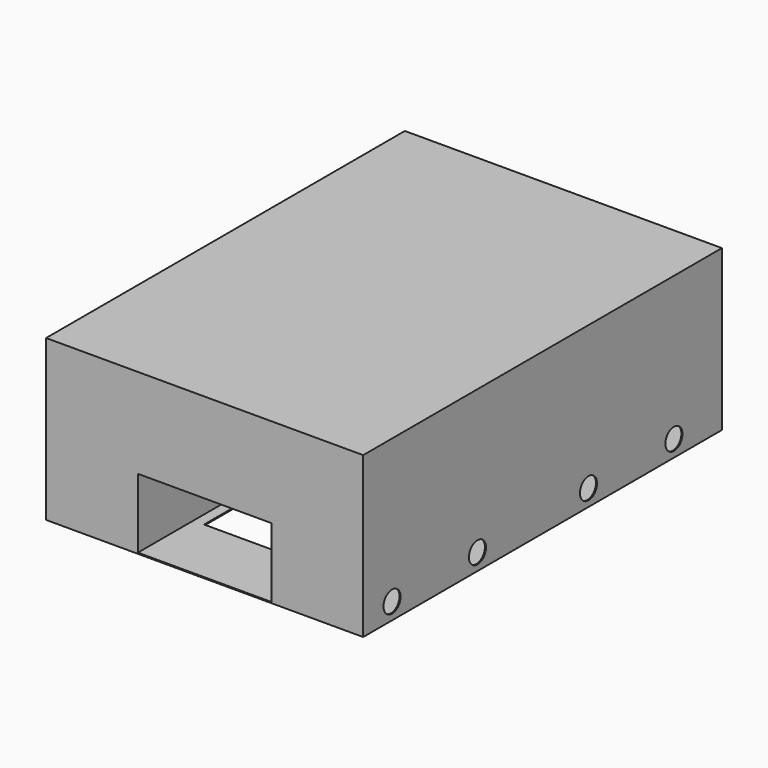
from build123d import *

# Parameters (mm, degrees)
F0_W      = 297
F0_H      = 420
F1_DEPTH  = 150
F3_START  = -1
F2_W      = 295
F2_H      = 418
F3_DEPTH  = 148
F4_W      = 125
F4_H      = 65
F5_DEPTH  = 25
F6_W      = 105
F6_H      = 210
F7_DEPTH  = 25
F9_DEPTH  = 67.5
F11_DEPTH = 295
F12_W     = 83
F12_H     = 1
F13_DEPTH = 148.5
F15_W     = 83
F15_H     = 15.0031849133
F16_DEPTH = 295
F14_W     = 83
F14_H     = 20
F17_DEPTH = 62.5
F18_R     = 10
F19_DEPTH = 7.5


with BuildPart() as f1:
    # F0 (on Top) → F1 (new body)
    with BuildSketch(Plane.XY):
        Rectangle(F0_W, F0_H)
    extrude(amount=F1_DEPTH)

    # F2 (on face) → F3 (cut)
    with BuildSketch(Plane.XY.offset(150).offset(F3_START)):
        Rectangle(F2_W, F2_H)
    extrude(amount=-F3_DEPTH, mode=Mode.SUBTRACT)

    # F4 (on face) → F5 (cut)
    with BuildSketch(Plane.XZ.offset(210)):
        with Locations((0, 33.5)):
            Rectangle(F4_W, F4_H)
    extrude(amount=-F5_DEPTH, mode=Mode.SUBTRACT)

    # F6 (on Top) → F7 (cut)
    with BuildSketch(Plane.XY):
        with Locations((0, -40)):
            Rectangle(F6_W, F6_H)
    extrude(amount=F7_DEPTH, mode=Mode.SUBTRACT)

    # F8 (on face) → F9 (join)
    with BuildSketch(Plane.XY.offset(1)):
        Polygon((-63.5, -209), (-62.5, -209), (-62.5, 65), (61.5036363636, 65), (62.5, -209), (63.5, -209), (62.5, 66), (-63.5, 66), align=None)
    extrude(amount=F9_DEPTH)

    # F10 (on face) → F11 (join, through all)
    with BuildSketch(Plane.YZ.offset(-147.5)):
        Polygon((-126, 68.5), (66, 68.5), (66, 69.5), (-125, 69.5), (-125, 85.5), (-209, 85.5), (-209.0797476204, 84.5031849133), (-126, 84.5031849133), align=None)
    extrude(amount=F11_DEPTH)

    # F12 (on Right) → F13 (join, symmetric)
    with BuildSketch(Plane.YZ):
        with Locations((-167.5, 69)):
            Rectangle(F12_W, F12_H)
    extrude(amount=F13_DEPTH, both=True)

    # F15 (on face) → F16 (join, through all)
    with BuildSketch(Plane.YZ.offset(-147.5)):
        with Locations((-167.5, 77.0015924567)):
            Rectangle(F15_W, F15_H)
    extrude(amount=F16_DEPTH)

    # F14 (on Right) → F17 (cut, symmetric)
    with BuildSketch(Plane.YZ):
        with Locations((-167.5, 74.5)):
            Rectangle(F14_W, F14_H)
    extrude(amount=F17_DEPTH, both=True, mode=Mode.SUBTRACT)

    # F18 (on face) → F19 (cut)
    with BuildSketch(Plane.YZ.offset(148.5)):
        with Locations((-176.1964619943, 15.5)):
            Circle(F18_R)
        with Locations((-76.1964619943, 15.5)):
            Circle(F18_R)
        with Locations((53.8035380057, 15.5)):
            Circle(F18_R)
        with Locations((153.8035380057, 15.5)):
            Circle(F18_R)
    extrude(amount=-F19_DEPTH, mode=Mode.SUBTRACT)


solid = f1.part
